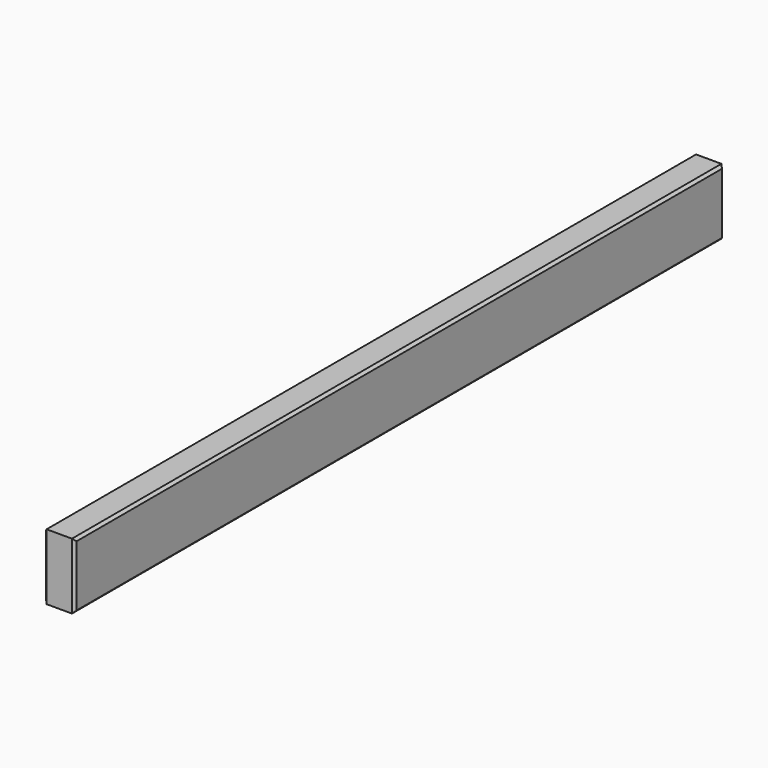
from build123d import *

# Parameters (mm, degrees)
F0_W     = 19.05
F0_H     = 41.275
F1_DEPTH = 254
F3_SIZE  = 1.5875


with BuildPart() as f1:
    # F0 (on Front) → F1 (new body, symmetric)
    with BuildSketch(Plane.XZ):
        Rectangle(F0_W, F0_H)
    extrude(amount=F1_DEPTH, both=True)

    # F3
    f3_edges = [f1.edges().sort_by_distance(p)[0] for p in [
        (-9.525, 0, 20.6375),
        (-9.525, 254, 0),
        (-9.525, 0, -20.6375),
        (-9.525, -254, 0),
        (9.525, 254, 0),
        (9.525, 0, 20.6375),
        (9.525, -254, 0),
        (9.525, 0, -20.6375),
    ]]
    chamfer(f3_edges, length=F3_SIZE)


solid = f1.part
